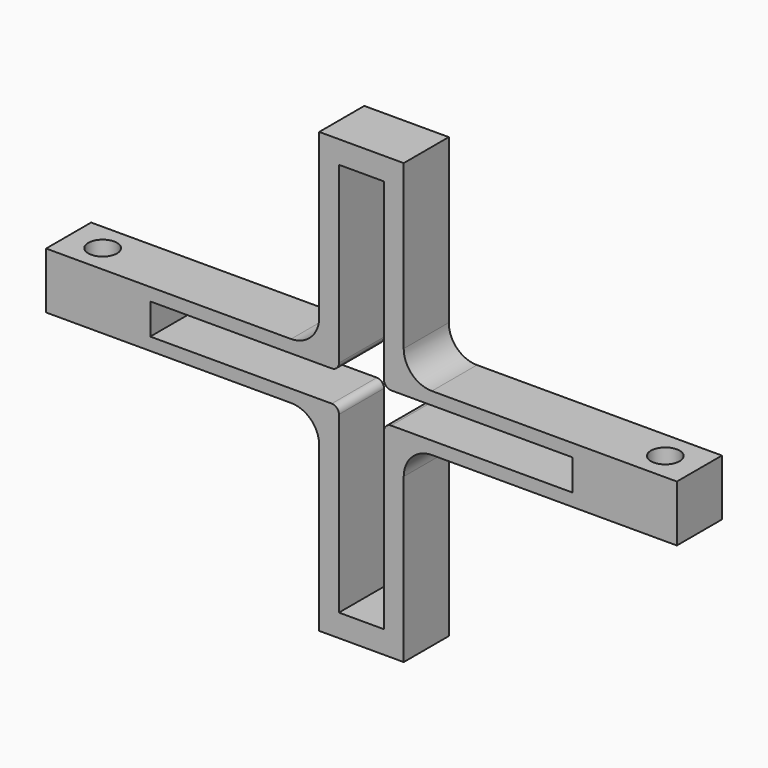
from build123d import *

# Parameters (mm, degrees)
F1_DEPTH = 19.99996
F2_R     = 9.99998
F3_R     = 2.54
F4_R     = 5.10032
F5_DEPTH = 105.918


with BuildPart() as f1:
    # F0 (on Front) → F1 (new body)
    with BuildSketch(Plane.XZ):
        Polygon((14.99997, -9.99998), (112.0013, -9.99998), (112.0013, 9.99998), (14.99997, 9.99998), (14.99997, 77.99959), (-14.99997, 77.99959), (-14.99997, 9.99998), (-112.0013, 9.99998), (-112.0013, -9.99998), (-14.99997, -9.99998), (-14.99997, -77.99959), (14.99997, -77.99959), align=None)
        Polygon((74.99985, 5.50037), (74.99985, -5.50037), (7.99973, -5.50037), (7.99973, -69.99986), (-7.99973, -69.99986), (-7.99973, -5.50037), (-74.99985, -5.50037), (-74.99985, 5.50037), (-7.99973, 5.50037), (-7.99973, 69.99986), (7.99973, 69.99986), (7.99973, 5.50037), align=None, mode=Mode.SUBTRACT)
    extrude(amount=F1_DEPTH)

    # F2
    f2_edges = [f1.edges().sort_by_distance(p)[0] for p in [
        (14.99997, -9.99998, 9.99998),
        (-14.99997, -9.99998, 9.99998),
        (-14.99997, -9.99998, -9.99998),
        (14.99997, -9.99998, -9.99998),
    ]]
    fillet(f2_edges, radius=F2_R)

    # F3
    f3_edges = [f1.edges().sort_by_distance(p)[0] for p in [
        (-7.99973, -9.99998, 5.50037),
        (7.99973, -9.99998, 5.50037),
        (7.99973, -9.99998, -5.50037),
        (-7.99973, -9.99998, -5.50037),
    ]]
    fillet(f3_edges, radius=F3_R)

    # F4 (on face) → F5 (cut)
    with BuildSketch(Plane.XY.offset(9.99998)):
        with Locations((-99.90074, -10.00252)):
            Circle(F4_R)
        with Locations((99.89058, -10.00252)):
            Circle(F4_R)
    extrude(amount=-F5_DEPTH, mode=Mode.SUBTRACT)


solid = f1.part
